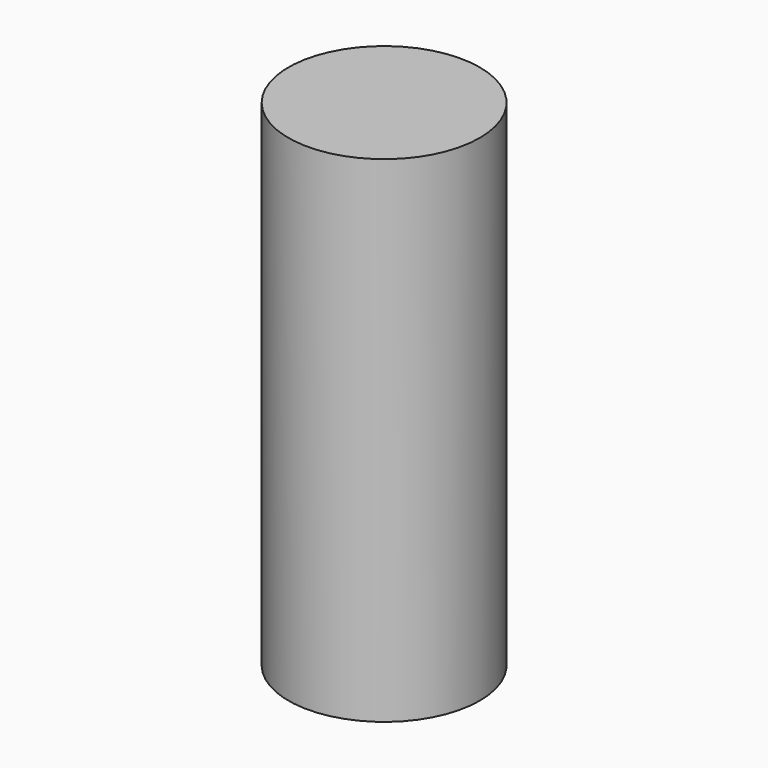
from build123d import *

# Parameters (mm, degrees)
CYLINDER_R     = 2.8956
CYLINDER_DEPTH = 15


with BuildPart() as part:
    # Cylinder → Cylinder (new body)
    with BuildSketch(Plane.XY.offset(-2.5)):
        Circle(CYLINDER_R)
    extrude(amount=CYLINDER_DEPTH)


solid = part.part
